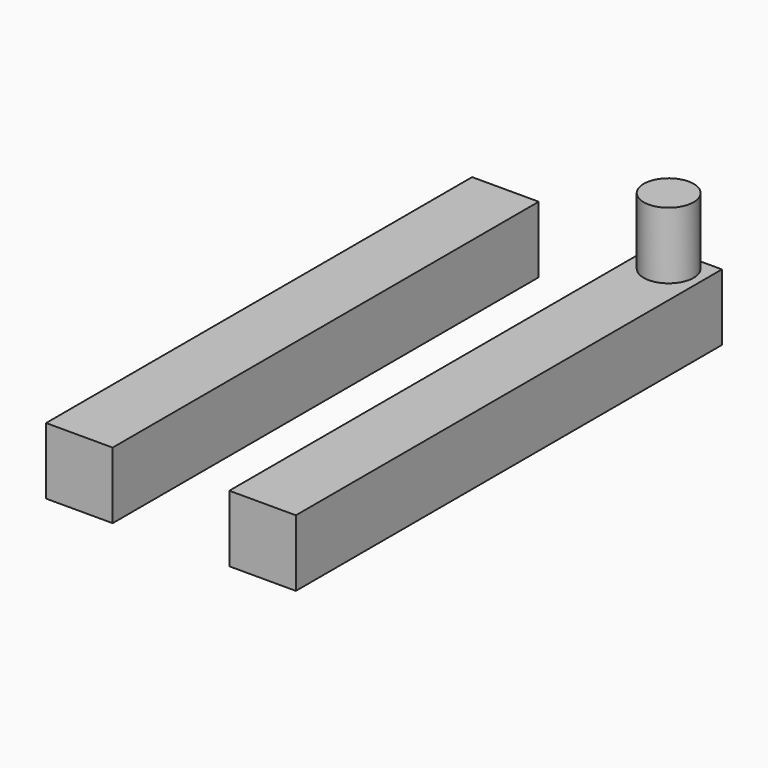
from build123d import *

# Parameters (mm, degrees)
F0_W     = 25.4
F0_H     = 25.4
F1_DEPTH = 203.2
F2_W     = 25.4
F2_H     = 25.4
F3_DEPTH = 203.2
F4_R     = 9.525
F5_DEPTH = 25.4


with BuildPart() as f1:
    # F0 (on Front) → F1 (new body)
    with BuildSketch(Plane.XZ):
        with Locations((12.7, 12.7)):
            Rectangle(F0_W, F0_H)
    extrude(amount=F1_DEPTH)

    # F4 (on face) → F5 (join)
    with BuildSketch(Plane.XY.offset(25.4)):
        with Locations((12.7, -9.525)):
            Circle(F4_R)
    extrude(amount=F5_DEPTH)


with BuildPart() as f3:
    # F2 (on Front) → F3 (new body)
    with BuildSketch(Plane.XZ):
        with Locations((-57.21218, 12.7)):
            Rectangle(F2_W, F2_H)
    extrude(amount=F3_DEPTH)


solid = Compound([f1.part, f3.part])
